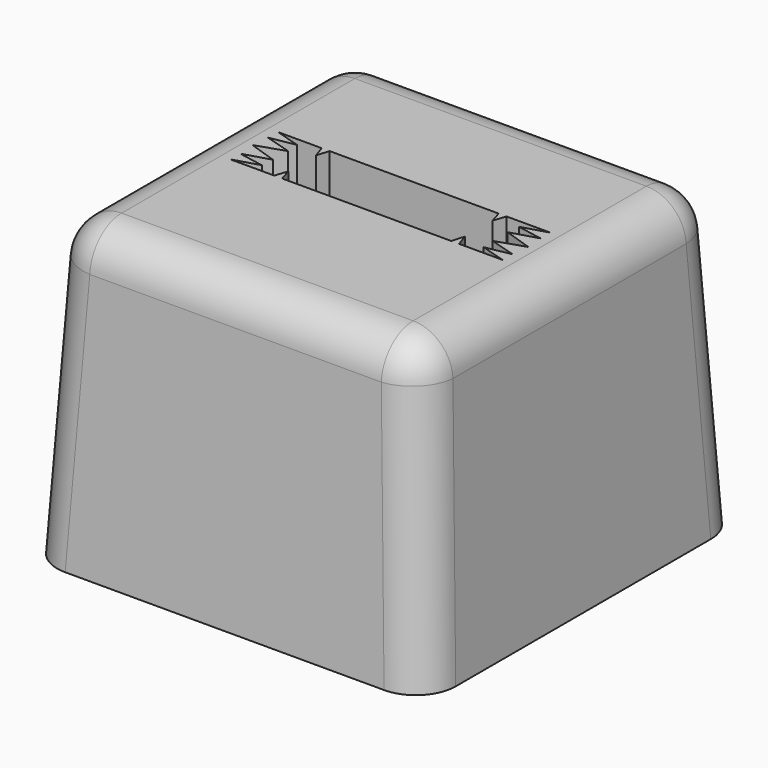
from build123d import *

# Parameters (mm, degrees)
F0_W     = 20
F0_H     = 20
F1_DEPTH = 15
F1_TAPER = 3
F2_R     = 2
F4_DEPTH = 3


with BuildPart() as f1:
    # F0 (on Top) → F1 (new body)
    with BuildSketch(Plane.XY):
        with Locations((1.2600612827, 0.3166195687)):
            Rectangle(F0_W, F0_H)
    extrude(amount=F1_DEPTH, taper=F1_TAPER)

    # F2
    f2_edges = [f1.edges().sort_by_distance(p)[0] for p in [
        (-8.34688, 9.923561, 7.5),
        (1.260061, 9.530503, 15),
        (10.473945, 0.31662, 15),
        (1.260061, -8.897264, 15),
        (-7.953822, 0.31662, 15),
        (10.867002, 9.923561, 7.500009),
        (10.867003, -9.290322, 7.5),
        (-8.34688, -9.290322, 7.5),
    ]]
    fillet(f2_edges, radius=F2_R)

    # F3 (on face) → F4 (cut)
    with BuildSketch(Plane.XY.offset(15)):
        Polygon((-4.2536617257, 1.1870977469), (-5.6595876813, 0.7161942194), (-4.2536617257, 0.245290692), (-5.5800070986, -0.1526129199), (-4.3067154475, -0.3913551336), (-5.5800070986, -0.773342629), (-3.3782736864, -0.773342629), (-3.1703652909, -0.1526129199), (-2.9841463782, -0.773342629), (1.2600612827, -0.773342629), (5.5042689435, -0.773342629), (5.6904878563, -0.1526129199), (5.8983962517, -0.773342629), (8.1001296639, -0.773342629), (6.8268380128, -0.3913551336), (8.1001296639, -0.1526129199), (6.773784291, 0.245290692), (8.1797102466, 0.7161942194), (6.773784291, 1.1870977469), (8.1001296639, 1.5850013588), (6.8268380128, 1.8237435725), (8.1001296639, 2.2057310678), (5.8983962517, 2.2057310678), (5.6904878563, 1.5850013588), (5.5042689435, 2.2057310678), (1.2600612827, 2.2057310678), (-2.9841463782, 2.2057310678), (-3.1703652909, 1.5850013588), (-3.3782736864, 2.2057310678), (-5.5800070986, 2.2057310678), (-4.3067154475, 1.8237435725), (-5.5800070986, 1.5850013588), align=None)
    extrude(amount=-F4_DEPTH, mode=Mode.SUBTRACT)


solid = f1.part
